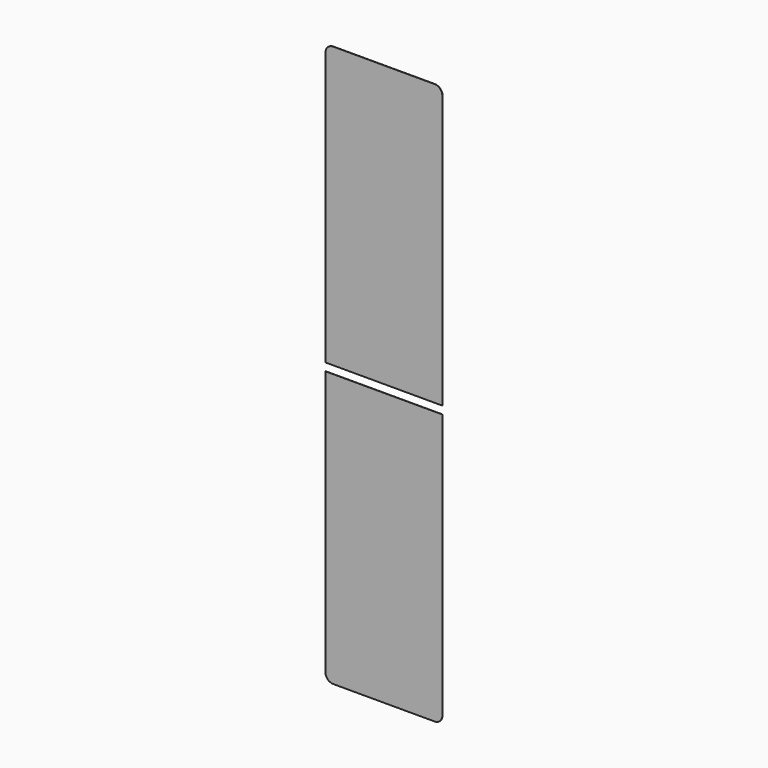
from build123d import *

# Parameters (mm, degrees)
RECTANGLE_W      = 1217.787964
RECTANGLE_H      = 10
EXTRUDE008_DEPTH = 150
EXTRUDE007_DEPTH = 0.3


with BuildPart() as extrude008:
    # Rectangle → Extrude008 (new body)
    with BuildSketch(Plane.XZ):
        with Locations((608.893982, 5)):
            Rectangle(RECTANGLE_W, RECTANGLE_H)
    extrude(amount=EXTRUDE008_DEPTH)


with BuildPart() as extrude008_1:
    # Extrude008 placement: moved
    add(extrude008.part.moved(Location((0, 0, 1250))))


with BuildPart() as cut:
    # Sketch007 → Extrude007 (new body)
    with BuildSketch(Plane.XZ):
        with BuildLine():
            ThreePointArc((10, 720), (2.928932, 717.071068), (0, 710))
            Line((0, 10), (0, 710))
            ThreePointArc((0, 10), (2.928932, 2.928932), (10, 0))
            Line((140, 0), (10, 0))
            ThreePointArc((140, 0), (147.071068, 2.928932), (150, 10))
            Line((150, 710), (150, 10))
            ThreePointArc((150, 710), (147.071068, 717.071068), (140, 720))
            Line((10, 720), (140, 720))
        make_face()
    extrude(amount=EXTRUDE007_DEPTH)


with BuildPart() as cut_1:
    # Extrude007 placement: moved
    add(cut.part.moved(Location((120, -50, 900))))

    # Cut: cut Extrude008
    add(extrude008_1.part, mode=Mode.SUBTRACT)


solid = cut_1.part
